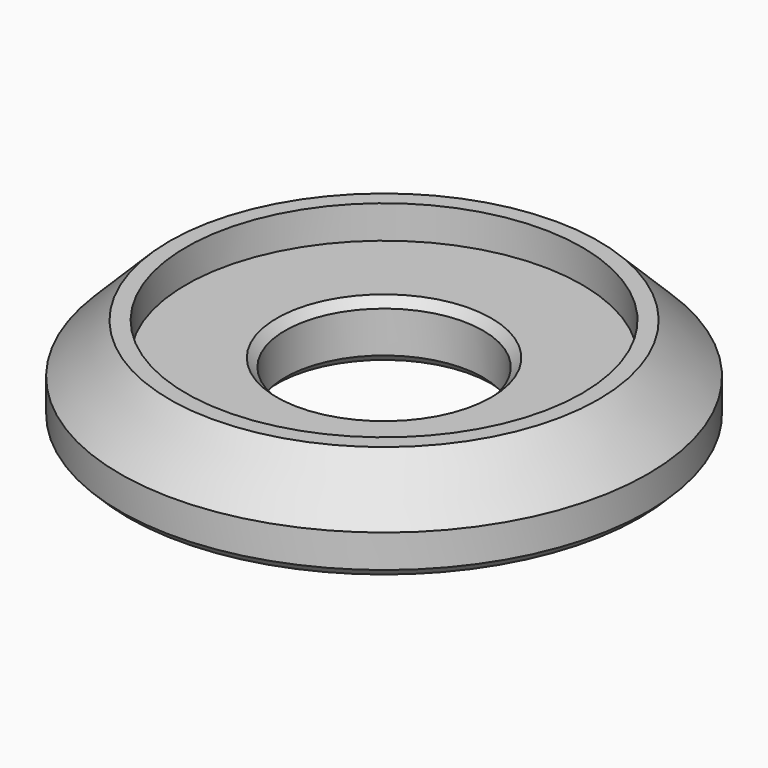
from build123d import *

# Parameters (mm, degrees)
F0_R     = 16
F0_R_2   = 6
F1_DEPTH = 5.5
F2_R     = 12
F3_DEPTH = 2
F4_SIZE  = 3
F5_SIZE  = 0.5


with BuildPart() as f1:
    # F0 (on Top) → F1 (new body)
    with BuildSketch(Plane.XY):
        Circle(F0_R)
        Circle(F0_R_2, mode=Mode.SUBTRACT)
    extrude(amount=F1_DEPTH)

    # F2 (on face) → F3 (cut)
    with BuildSketch(Plane.XY.offset(5.5)):
        Circle(F2_R)
    extrude(amount=-F3_DEPTH, mode=Mode.SUBTRACT)

    # F4
    f4_edges = [f1.edges().sort_by_distance(p)[0] for p in [
        (-16, 0, 5.5),
    ]]
    chamfer(f4_edges, length=F4_SIZE)

    # F5
    f5_edges = [f1.edges().sort_by_distance(p)[0] for p in [
        (-16, 0, 0),
        (-6, 0, 0),
        (-6, 0, 3.5),
    ]]
    chamfer(f5_edges, length=F5_SIZE)


solid = f1.part
